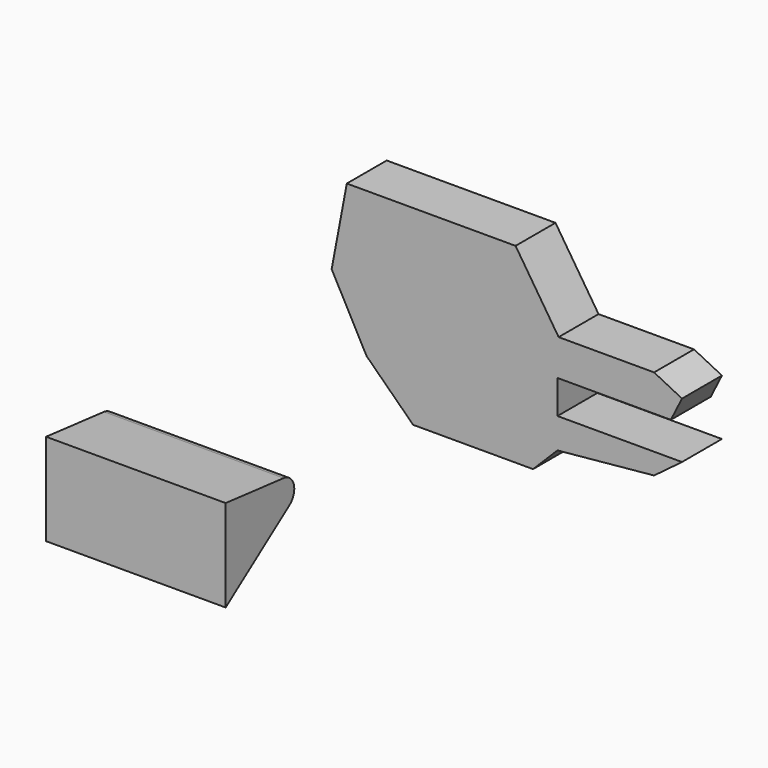
from build123d import *

# Parameters (mm, degrees)
F1_DEPTH = 7.62
F3_DEPTH = 27.432
F4_R     = 2.277872


with BuildPart() as f1:
    # F0 (on Front) → F1 (new body)
    with BuildSketch(Plane.XZ):
        Polygon((43.116499, 39.204903), (17.335501, 39.204903), (15.0241, 26.936701), (20.358101, 16.979899), (27.470101, 10.045701), (45.783501, 10.045701), (49.5173, 13.7795), (64.274698, 15.2019), (68.541899, 18.402301), (49.5173, 18.402301), (49.5173, 23.52294), (66.835019, 23.52294), (68.541899, 26.936701), (64.274698, 29.070301), (49.695101, 29.070301), align=None)
    extrude(amount=F1_DEPTH)


with BuildPart() as f3:
    # F2 (on Right) → F3 (new body)
    with BuildSketch(Plane.YZ):
        Polygon((-26.373954, 12.28949), (-43.373745, 14.047142), (-43.373745, 0), align=None)
    extrude(amount=F3_DEPTH)

    # F4
    f4_edges = [f3.edges().sort_by_distance(p)[0] for p in [
        (13.716, -26.373954, 12.28949),
    ]]
    fillet(f4_edges, radius=F4_R)


solid = Compound([f1.part, f3.part])
